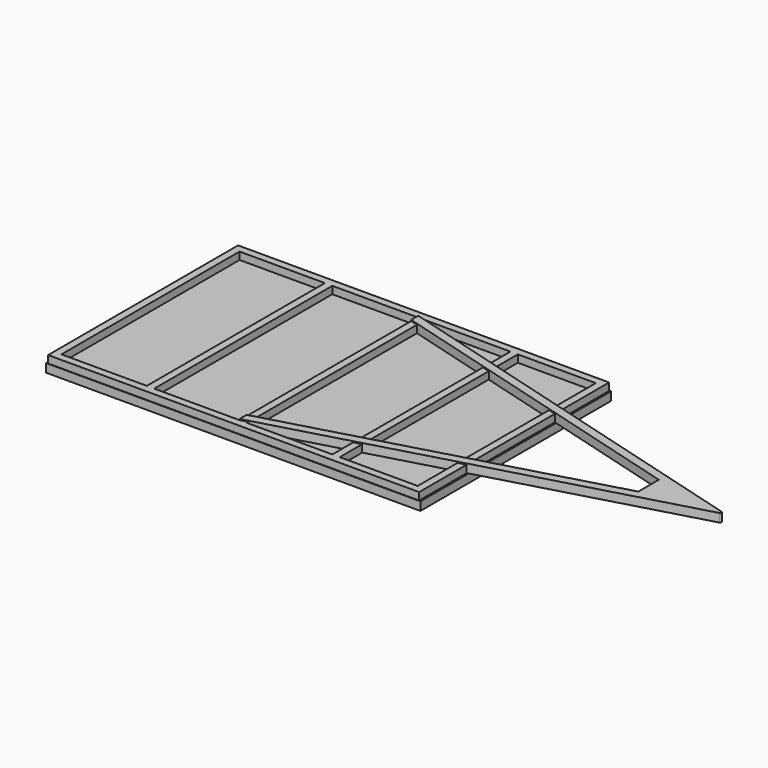
from build123d import *

# Parameters (mm, degrees)
F0_W     = 2540
F0_H     = 1625.6
F0_W_2   = 50.8
F0_H_2   = 1524
F1_DEPTH = 50.8
F3_DEPTH = 58
F4_R     = 10
F5_W     = 2562.348366
F5_H     = 1632.128954
F6_DEPTH = 58


with BuildPart() as f1:
    # F0 (on Top) → F1 (new body)
    with BuildSketch(Plane.XY):
        Rectangle(F0_W, F0_H)
        Polygon((1219.2, 762), (1219.2, -762), (685.8, -762), (635, -762), (50.8, -762), (0, -762), (-584.2, -762), (-635, -762), (-1219.2, -762), (-1219.2, 762), (-635, 762), (-584.2, 762), (0, 762), (50.8, 762), (635, 762), (685.8, 762), align=None, mode=Mode.SUBTRACT)
        with Locations((-609.6, 0)):
            Rectangle(F0_W_2, F0_H_2)
        with Locations((25.4, 0)):
            Rectangle(F0_W_2, F0_H_2)
        with Locations((660.4, 0)):
            Rectangle(F0_W_2, F0_H_2)
    extrude(amount=F1_DEPTH)


with BuildPart() as f3:
    # F2 (on Top) → F3 (new body)
    with BuildSketch(Plane.XY):
        Polygon((0, -762), (2716.429234, 0), (0, 767.48383), (0, 706.797673), (2189.718625, 88.127539), (2500.923512, 0.201553), (2189.718625, -87.096183), (0, -701.345791), align=None)
        Polygon((2189.718625, 88.127539), (2189.718625, -87.096183), (2500.923512, 0.201553), align=None)
    extrude(amount=F3_DEPTH)

    # F4
    f4_edges = [f3.edges().sort_by_distance(p)[0] for p in [
        (2716.429234, 0, 29),
    ]]
    fillet(f4_edges, radius=F4_R)


with BuildPart() as f6:
    # F5 (on Top) → F6 (new body)
    with BuildSketch(Plane.XY):
        Rectangle(F5_W, F5_H)
    extrude(amount=-F6_DEPTH)


solid = Compound([f1.part, f3.part, f6.part])
